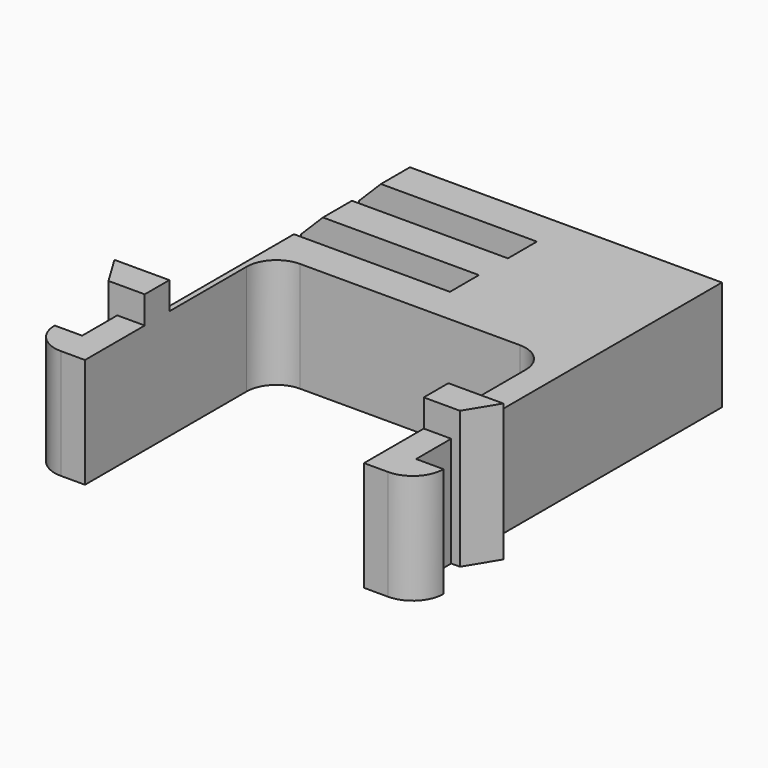
from build123d import *

# Parameters (mm, degrees)
PAD017_DEPTH           = 5
PAD020_DEPTH           = 6.25
SKETCH038_W            = 10
SKETCH038_H            = 1.65
PAD021_DEPTH           = 5
SKETCH079_W            = 15.2
SKETCH079_H            = 1.65
PAD051_DEPTH           = 2.1
SKETCH080_W            = 7.1
SKETCH080_H            = 1.65
PAD052_DEPTH           = 5
SKETCH081_W            = 15.2
SKETCH081_H            = 1.65
PAD053_DEPTH           = 5
LINEARPATTERN018_COUNT = 2
LINEARPATTERN018_PITCH = 3.3
CHAMFER008_SIZE        = 1


with BuildPart() as obj1:
    # Sketch034 → Pad017 (new body)
    with BuildSketch(Plane.XY):
        with BuildLine():
            Line((-1.35, -1.8), (-1.35, 6))
            ThreePointArc((0, 7.35), (-0.954594, 6.954594), (-1.35, 6))
            Line((0, 9), (0, 7.35))
            Line((-2.6, 9), (0, 9))
            Line((-2.6, -1.8), (-2.6, 9))
            Line((-3.85, -1.8), (-2.6, -1.8))
            ThreePointArc((-3.85, -1.8), (-3.439949, -2.789949), (-2.45, -3.2))
            Line((-1.35, -3.2), (-2.45, -3.2))
            Line((-1.35, -1.8), (-1.35, -3.2))
        make_face()
    extrude(amount=PAD017_DEPTH)

    # Sketch037 → Pad020 (join)
    with BuildSketch(Plane.XY):
        Polygon((-1.35, 0.2), (-1.35, 1.6), (-2.6, 1.6), (-3.85, 1.6), (-3, 0.2), (-2.6, 0.2), align=None)
    extrude(amount=PAD020_DEPTH)


with BuildPart() as body028:
    # Mirror002: instance of _obj1
    add(obj1.part.mirror(Plane(origin=(5, 0, 0), x_dir=(0, 1, 0), z_dir=(-1, 0, 0))))

    # Fusion002: union _obj1
    add(obj1.part)


with BuildPart() as body028_1:
    # Clone003 placement: moved
    add(body028.part.moved(Location((-5, 0, 0))))

    # Sketch038 → Pad021 (new body)
    with BuildSketch(Plane.XY):
        with Locations((0, 8.175)):
            Rectangle(SKETCH038_W, SKETCH038_H)
    extrude(amount=PAD021_DEPTH)

    # Sketch079 → Pad051 (new body)
    with BuildSketch(Plane.XY):
        with Locations((0, 9.825)):
            Rectangle(SKETCH079_W, SKETCH079_H)
    pad051 = extrude(amount=PAD051_DEPTH)

    # Sketch080 → Pad052 (join)
    with BuildSketch(Plane.XY):
        with Locations((4.05, 9.825)):
            Rectangle(SKETCH080_W, SKETCH080_H)
    pad052 = extrude(amount=PAD052_DEPTH)

    # Sketch081 → Pad053 (join)
    with BuildSketch(Plane.XY):
        with Locations((0, 11.475)):
            Rectangle(SKETCH081_W, SKETCH081_H)
    pad053 = extrude(amount=PAD053_DEPTH)

    # LinearPattern018: Pad053, Pad052, Pad051 ×2
    with Locations(*[(0, i * LINEARPATTERN018_PITCH, 0) for i in range(1, LINEARPATTERN018_COUNT)]):
        add(pad053)
        add(pad052)
        add(pad051)

    # Chamfer008
    chamfer008_edges = [body028_1.edges().sort_by_distance(p)[0] for p in [
        (-7.6, 5.3, 5),
        (-7.6, 11.475, 5),
        (-7.6, 14.775, 5),
    ]]
    chamfer(chamfer008_edges, length=CHAMFER008_SIZE)


with BuildPart() as body028_2:
    # Body028 placement: moved
    add(body028_1.part.moved(Location((-5, 0, 0))))


solid = body028_2.part
